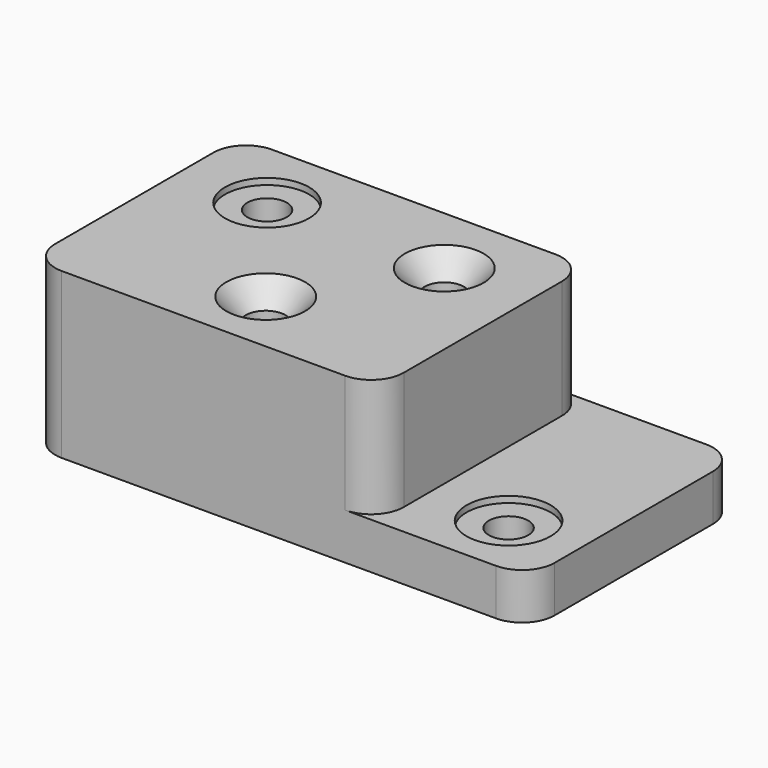
from build123d import *

# Parameters (mm, degrees)
F0_W           = 72.898
F0_H           = 22.352
F1_DEPTH       = 127
F2_R           = 15.748
F4_D           = 19.05
F4_CSINK_D     = 38.1
F4_CSINK_ANGLE = 82
F5_D           = 19.05
F5_START       = 57.15
F5_CBORE_D     = 40.64
F5_CBORE_DEPTH = 3.048


with BuildPart() as f1:
    # F0 (on Front) → F1 (new body)
    with BuildSketch(Plane.XZ):
        Polygon((0, 79.502), (0, 0), (168.402, 0), (168.402, 22.352), (168.402, 79.502), align=None)
        with Locations((204.851, 11.176)):
            Rectangle(F0_W, F0_H)
    extrude(amount=F1_DEPTH)

    # F2
    f2_edges = [f1.edges().sort_by_distance(p)[0] for p in [
        (168.402, -127, 50.927),
        (168.402, 0, 50.927),
        (241.3, -127, 11.176),
        (241.3, 0, 11.176),
        (0, -127, 39.751),
        (0, 0, 39.751),
    ]]
    fillet(f2_edges, radius=F2_R)

    # F4 (through all)
    with Locations(Plane.XY.offset(79.502)):
        with Locations((88.9, -95.25), (127, -35.052)):
            CounterSinkHole(F4_D / 2, F4_CSINK_D / 2, counter_sink_angle=F4_CSINK_ANGLE)

    # F5 (through all)
    # its depths count from where the whole tool has entered the part; down to there all is cleared
    with Locations(Plane.XY.offset(79.502)):
        with Locations((41.402, -35.052, 0), (206.248, -95.25, -F5_START)):
            CounterBoreHole(F5_D / 2, F5_CBORE_D / 2, F5_CBORE_DEPTH)


solid = f1.part
